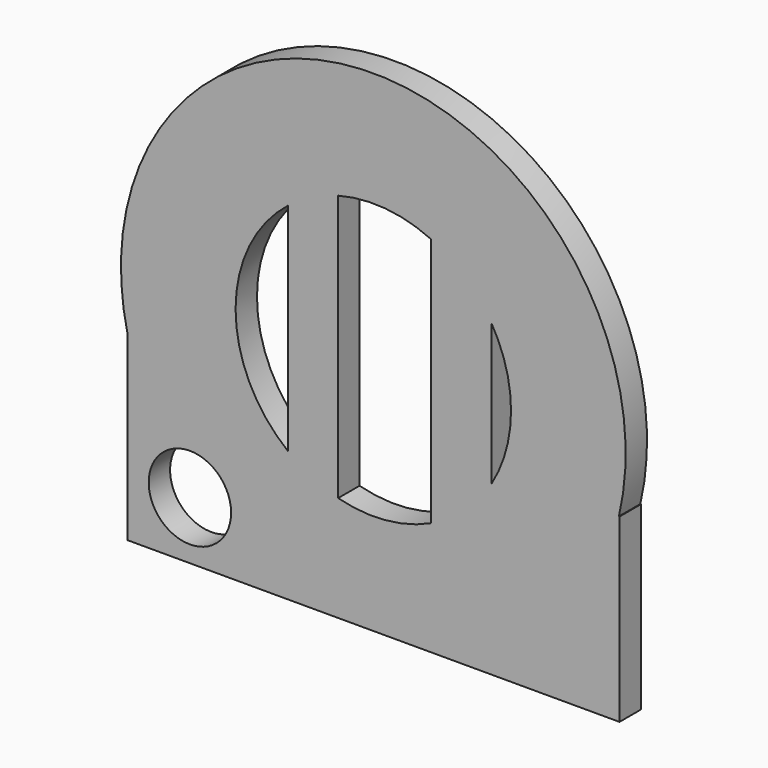
from build123d import *

# Parameters (mm, degrees)
F0_R     = 4.620639
F1_DEPTH = 3
F2_DEPTH = 3


with BuildPart() as f1:
    # F0 (on Front) → F1 (new body)
    with BuildSketch(Plane.XZ):
        with BuildLine():
            Line((-27.543953, -26.763909), (27.609084, -26.763909))
            Line((27.609084, -26.763909), (27.609084, -6.493502))
            Line((27.609084, -6.493502), (27.543953, -6.493502))
            ThreePointArc((27.543953, -6.493502), (0, 28.299027), (-27.543953, -6.493502))
            Line((-27.543953, -6.493502), (-27.543953, -26.763909))
        make_face()
        with Locations((-20.565949, -20.284224)):
            Circle(F0_R, mode=Mode.SUBTRACT)
        with BuildLine():
            ThreePointArc((13.241089, 7.948456), (14.88278, 4.123983), (15.443587, 0))
            ThreePointArc((15.443587, 0), (14.88278, -4.123983), (13.241089, -7.948456))
            ThreePointArc((13.241089, -7.948456), (10.316905, -11.491991), (6.479682, -14.018492))
            ThreePointArc((6.479682, -14.018492), (1.347439, -15.384694), (-3.944157, -14.931444))
            ThreePointArc((-3.944157, -14.931444), (-6.906584, -13.813164), (-9.578664, -12.11419))
            ThreePointArc((-9.578664, -12.11419), (-15.443587, 0), (-9.578664, 12.11419))
            ThreePointArc((-9.578664, 12.11419), (-6.906584, 13.813164), (-3.944157, 14.931444))
            ThreePointArc((-3.944157, 14.931444), (1.347439, 15.384694), (6.479682, 14.018492))
            ThreePointArc((6.479682, 14.018492), (10.316905, 11.491991), (13.241089, 7.948456))
        make_face(mode=Mode.SUBTRACT)
    extrude(amount=F1_DEPTH)

    # F0 (on Front) → F2 (join)
    with BuildSketch(Plane.XZ):
        with BuildLine():
            Line((-3.944157, -14.931444), (-3.944157, 14.931444))
            ThreePointArc((-3.944157, 14.931444), (-6.906584, 13.813164), (-9.578664, 12.11419))
            Line((-9.578664, 12.11419), (-9.578664, -12.11419))
            ThreePointArc((-9.578664, -12.11419), (-6.906584, -13.813164), (-3.944157, -14.931444))
        make_face()
        with BuildLine():
            Line((13.241089, -7.948456), (13.241089, 7.948456))
            ThreePointArc((13.241089, 7.948456), (10.316905, 11.491991), (6.479682, 14.018492))
            Line((6.479682, 14.018492), (6.479682, -14.018492))
            ThreePointArc((6.479682, -14.018492), (10.316905, -11.491991), (13.241089, -7.948456))
        make_face()
    extrude(amount=F2_DEPTH)


solid = f1.part
